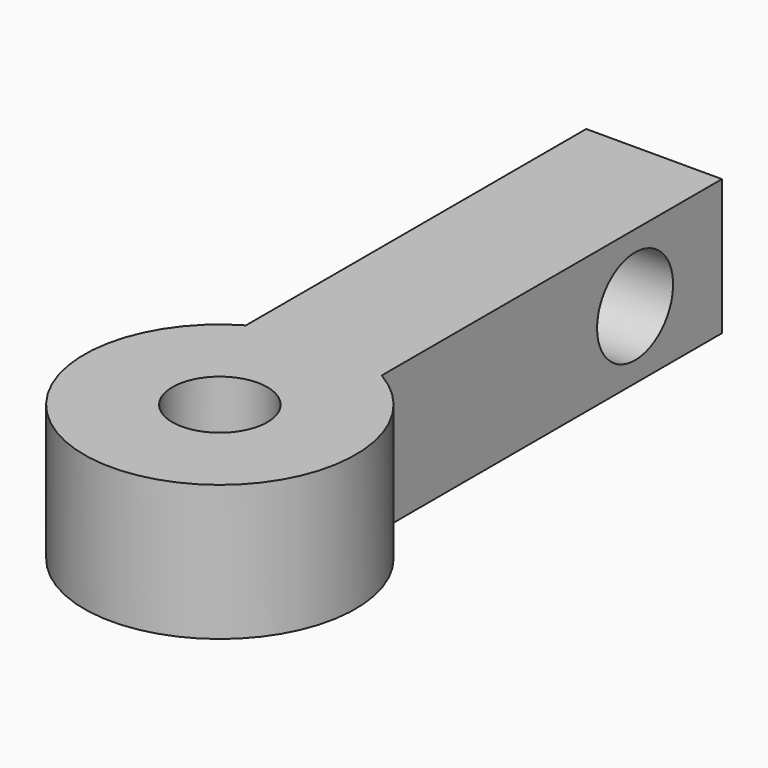
from build123d import *

# Parameters (mm, degrees)
F0_R     = 1.75
F1_DEPTH = 5
F2_R     = 1.75
F3_DEPTH = 25


with BuildPart() as f1:
    # F0 (on Top) → F1 (new body)
    with BuildSketch(Plane.XY):
        with BuildLine():
            Line((2.5, -5.669873), (2.5, 10))
            Line((2.5, 10), (-2.5, 10))
            Line((-2.5, 10), (-2.5, -5.669873))
            ThreePointArc((-2.5, -5.669873), (0, -15), (2.5, -5.669873))
        make_face()
        with Locations((0, -10)):
            Circle(F0_R, mode=Mode.SUBTRACT)
    extrude(amount=F1_DEPTH)

    # F2 (on face) → F3 (cut)
    with BuildSketch(Plane(origin=(-2.5, 0, 0), x_dir=(0, -1, 0), z_dir=(-1, 0, 0))):
        with Locations((-6, 2.5)):
            Circle(F2_R)
    extrude(amount=-F3_DEPTH, mode=Mode.SUBTRACT)


solid = f1.part
